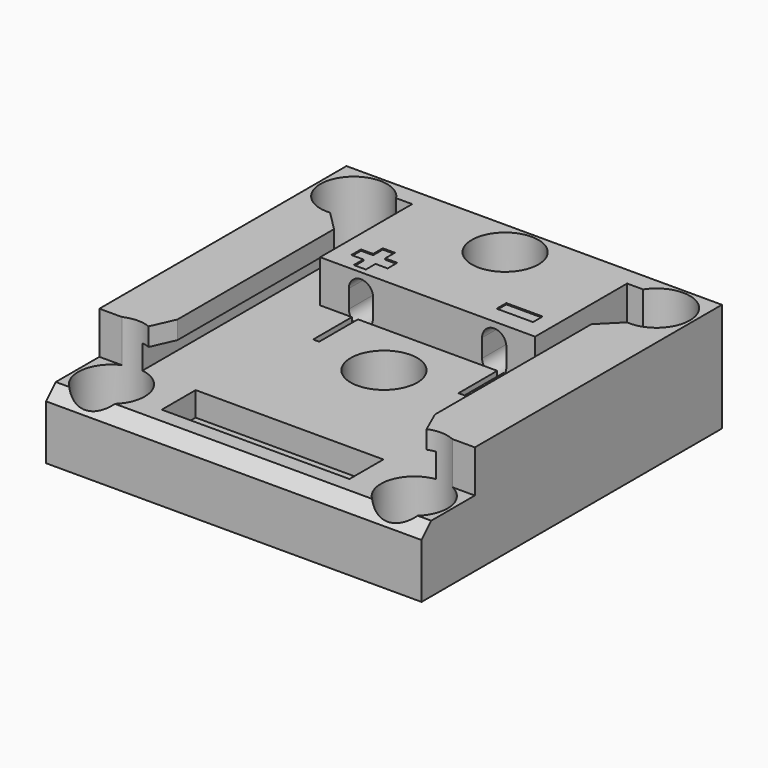
from build123d import *

# Parameters (mm, degrees)
SKETCH072_W          = 62
SKETCH072_H          = 62
PAD012_DEPTH         = 18
SKETCH073_R          = 3.05
POCKET058_DEPTH      = 18.001
POCKET059_DEPTH      = 59
POCKET060_DEPTH      = 7
SKETCH077_R          = 1.5
POCKET062_DEPTH      = 22
SKETCH078_R          = 5.5
POCKET063_DEPTH      = 15
SKETCH076_W          = 31
SKETCH076_H          = 7
SKETCH076_W_2        = 1
SKETCH076_H_2        = 8
POCKET065_DEPTH      = 11
POCKET_DEPTH         = 7
POCKET068_DEPTH      = 31.001
POCKET068_DEPTH_BACK = -31.001
POCKET069_DEPTH      = 16
SKETCH_W             = 6
SKETCH_H             = 2
POCKET070_DEPTH      = 0.2


with BuildPart() as part:
    # Sketch072 → Pad012 (new body)
    with BuildSketch(Plane.XY):
        Rectangle(SKETCH072_W, SKETCH072_H)
    extrude(amount=PAD012_DEPTH)

    # Sketch073 (on Face5 of Pad012) → Pocket058 (cut, through all)
    with BuildSketch(Plane(origin=(0, 0, 0), x_dir=(1, 0, 0), z_dir=(0, 0, -1))):
        with Locations((-25, 25)):
            Circle(SKETCH073_R)
        with Locations((25, 25)):
            Circle(SKETCH073_R)
        with Locations((-25, -25)):
            Circle(SKETCH073_R)
        with Locations((25, -25)):
            Circle(SKETCH073_R)
        Circle(SKETCH073_R)
        with Locations((0, -25)):
            Circle(SKETCH073_R)
    extrude(amount=-POCKET058_DEPTH, mode=Mode.SUBTRACT)

    # Sketch074 (on Face2 of Pocket058) → Pocket059 (cut)
    with BuildSketch(Plane.XZ.offset(31)):
        Polygon((-21.25, 20), (-21.25, 15), (-24.25, 15), (-24.25, 11), (-17.75, 11), (-17.75, 18), (17.75, 18), (17.75, 11), (24.25, 11), (24.25, 15), (21.25, 15), (21.25, 20), align=None)
    extrude(amount=-POCKET059_DEPTH, mode=Mode.SUBTRACT)

    # Sketch075 (on Face5 of Pocket059) → Pocket060 (cut)
    with BuildSketch(Plane.XY.offset(18)):
        Polygon((-19, -11), (-19, 9), (19, 9), (19, -11), (23, -20), (31, -20), (31, -31), (-31, -31), (-31, -20), (-23, -20), align=None)
    extrude(amount=-POCKET060_DEPTH, mode=Mode.SUBTRACT)

    # Sketch077 → Pocket062 (cut)
    with BuildSketch(Plane(origin=(0, 31, 0), x_dir=(-1, 0, 0), z_dir=(0, 1, 0))):
        with Locations((-11, 13.5)):
            Circle(SKETCH077_R)
        with Locations((11, 13.5)):
            Circle(SKETCH077_R)
    extrude(amount=-POCKET062_DEPTH, mode=Mode.SUBTRACT)

    # Sketch078 (on Face4 of Pocket062) → Pocket063 (cut)
    with BuildSketch(Plane.XY.offset(18)):
        with Locations((-25, 25)):
            Circle(SKETCH078_R)
        with Locations((-25, -25)):
            Circle(SKETCH078_R)
        with Locations((25, 25)):
            Circle(SKETCH078_R)
        with Locations((25, -25)):
            Circle(SKETCH078_R)
        Circle(SKETCH078_R)
        with Locations((0, 25)):
            Circle(SKETCH078_R)
    extrude(amount=-POCKET063_DEPTH, mode=Mode.SUBTRACT)

    # Sketch076 (on Face4 of Pocket060) → Pocket065 (cut)
    with BuildSketch(Plane.XY.offset(18)):
        with Locations((0, -23)):
            Rectangle(SKETCH076_W, SKETCH076_H)
        with Locations((-12, 5)):
            Rectangle(SKETCH076_W_2, SKETCH076_H_2)
        with Locations((12, 5)):
            Rectangle(SKETCH076_W_2, SKETCH076_H_2)
    extrude(amount=-POCKET065_DEPTH, mode=Mode.SUBTRACT)

    # Sketch079 → Pocket (cut)
    with BuildSketch(Plane.XY.offset(18)):
        Polygon((-25, 20), (-20, 15), (-20, 25), align=None)
        Polygon((20, 25), (20, 15), (25, 20), align=None)
    extrude(amount=-POCKET_DEPTH, mode=Mode.SUBTRACT)

    # Sketch080 → Pocket068 (cut, two sides)
    with BuildSketch(Plane.YZ) as pocket068_sk:
        Polygon((-31, 11), (-31, 9), (-29, 11), align=None)
    extrude(amount=-POCKET068_DEPTH, mode=Mode.SUBTRACT)
    extrude(pocket068_sk.sketch, amount=-POCKET068_DEPTH_BACK, mode=Mode.SUBTRACT)

    # Sketch081 (on Face44 of Pocket068) → Pocket069 (cut)
    with BuildSketch(Plane.XZ.offset(-9)):
        with BuildLine():
            ThreePointArc((-9, 15), (-11, 17), (-13, 15))
            Line((-13, 15), (-13, 12))
            ThreePointArc((-13, 12), (-11, 10), (-9, 12))
            Line((-9, 15), (-9, 12))
        make_face()
        with BuildLine():
            ThreePointArc((13, 15), (11, 17), (9, 15))
            Line((9, 15), (9, 12))
            ThreePointArc((9, 12), (11, 10), (13, 12))
            Line((13, 15), (13, 12))
        make_face()
    extrude(amount=-POCKET069_DEPTH, mode=Mode.SUBTRACT)

    # Sketch (on Face22 of Pocket069) → Pocket070 (cut)
    with BuildSketch(Plane.XY.offset(18)):
        Polygon((-11, 16), (-13, 16), (-13, 14), (-15, 14), (-15, 12), (-13, 12), (-13, 10), (-11, 10), (-11, 12), (-9, 12), (-9, 14), (-11, 14), align=None)
        with Locations((12, 13)):
            Rectangle(SKETCH_W, SKETCH_H)
    extrude(amount=-POCKET070_DEPTH, mode=Mode.SUBTRACT)


solid = part.part
